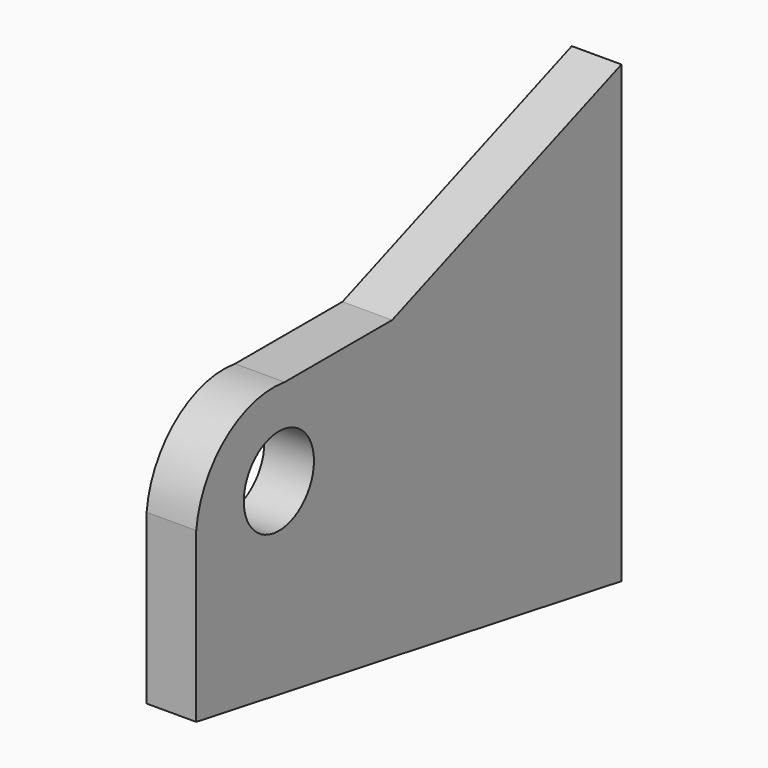
from build123d import *

# Parameters (mm, degrees)
PAD012_DEPTH    = 6
SKETCH029_R     = 5.3
POCKET012_DEPTH = 6
SKETCH031_R     = 1.6
POCKET014_DEPTH = 5


with BuildPart() as part:
    # CopySketch029 → Pad012 (new body)
    with BuildSketch(Plane.YZ):
        with BuildLine():
            Line((69.62, -34.0739220052), (104.26, -20.95))
            Line((104.26, -20.95), (104.26, -75.95))
            Line((104.26, -75.95), (40.01, -64.8058991482))
            Line((40.01, -64.8058991482), (40.01, -44.4358991482))
            ThreePointArc((53.3737933734, -34.0739220052), (44.4834146169, -36.4066415985), (40.01, -44.4358991482))
            Line((53.3737933734, -34.0739220052), (69.62, -34.0739220052))
        make_face()
    extrude(amount=PAD012_DEPTH)

    # Sketch029 (on Face7 of Pad012) → Pocket012 (cut)
    with BuildSketch(Plane(origin=(0, 0, 0), x_dir=(0, 1, 0), z_dir=(-1, 0, 0))):
        with Locations((52.5, 44.25)):
            Circle(SKETCH029_R)
    extrude(amount=-POCKET012_DEPTH, mode=Mode.SUBTRACT)

    # Sketch031 (on Face4 of Pocket012) → Pocket014 (cut)
    with BuildSketch(Plane(origin=(0, 0, 0), x_dir=(0, 1, 0), z_dir=(-1, 0, 0))):
        with Locations((74.913826, 48.264923)):
            Circle(SKETCH031_R)
        with Locations((74.851181, 34.284763)):
            Circle(SKETCH031_R)
        with Locations((41.828423, 63.335484)):
            Circle(SKETCH031_R)
        with Locations((74.867561, 68.275307)):
            Circle(SKETCH031_R)
        with Locations((102.321861, 48.275112)):
            Circle(SKETCH031_R)
        with Locations((102.306999, 23.636881)):
            Circle(SKETCH031_R)
        with Locations((102.284668, 72.393417)):
            Circle(SKETCH031_R)
    extrude(amount=-POCKET014_DEPTH, mode=Mode.SUBTRACT)


with BuildPart() as part_1:
    # Body005 placement: moved
    add(part.part.moved(Location((87, 0, 0))))


solid = part_1.part
